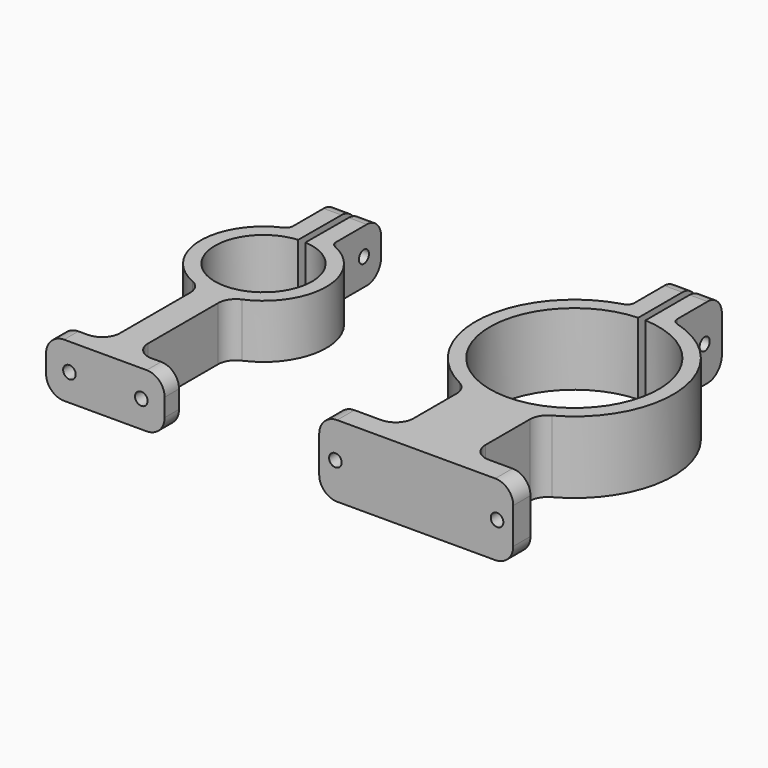
from build123d import *

# Parameters (mm, degrees)
F1_DEPTH  = 15
F2_R      = 1.75
F3_DEPTH  = 25
F4_R      = 1.75
F5_DEPTH  = 25
F6_R      = 5
F8_DEPTH  = 20
F9_R      = 1.75
F10_DEPTH = 25
F11_R     = 1.75
F12_DEPTH = 25
F13_R     = 5
F14_R     = 2
F14_2_R   = 2
F15_R     = 5


with BuildPart() as f1:
    # F0 (on Top) → F1 (new body)
    with BuildSketch(Plane.XY):
        with BuildLine():
            ThreePointArc((-52.053306, 13.469729), (-52.860094, -13.499653), (-54.053375, 13.455394))
            Line((-54.053375, 13.455394), (-53.95685, 33.439282))
            Line((-53.95685, 33.439282), (-58.95685, 33.439282))
            Line((-58.95685, 33.439282), (-58.95685, 16.439282))
            ThreePointArc((-58.95685, 16.439282), (-70.449843, 0.495167), (-59.877178, -16.073552))
            ThreePointArc((-59.877178, -16.073552), (-57.677922, -17.917012), (-56.854415, -20.665995))
            Line((-56.854415, -20.665995), (-56.854415, -45))
            ThreePointArc((-56.854415, -45), (-58.318881, -48.535534), (-61.854415, -50))
            Line((-61.854415, -50), (-69.45685, -50))
            Line((-69.45685, -50), (-69.45685, -55))
            Line((-69.45685, -55), (-36.45685, -55))
            Line((-36.45685, -55), (-36.45685, -50))
            Line((-36.45685, -50), (-44.059286, -50))
            ThreePointArc((-44.059286, -50), (-47.59482, -48.535534), (-49.059286, -45))
            Line((-49.059286, -45), (-49.059286, -20.665995))
            ThreePointArc((-49.059286, -20.665995), (-48.235778, -17.917012), (-46.036522, -16.073552))
            ThreePointArc((-46.036522, -16.073552), (-35.463857, 0.495167), (-46.95685, 16.439282))
            Line((-46.95685, 16.439282), (-46.95685, 33.439282))
            Line((-46.95685, 33.439282), (-51.95685, 33.439282))
            Line((-51.95685, 33.439282), (-52.053306, 13.469729))
        make_face()
    extrude(amount=F1_DEPTH)

    # F2 (on face) → F3 (cut)
    with BuildSketch(Plane.XZ.offset(55)):
        with Locations((-62.95685, 7.5)):
            Circle(F2_R)
        with Locations((-42.95685, 7.5)):
            Circle(F2_R)
    extrude(amount=-F3_DEPTH, mode=Mode.SUBTRACT)

    # F4 (on face) → F5 (cut)
    with BuildSketch(Plane.YZ.offset(-46.95685)):
        with Locations((27.439282, 7.5)):
            Circle(F4_R)
    extrude(amount=-F5_DEPTH, mode=Mode.SUBTRACT)

    # F6
    f6_edges = [f1.edges().sort_by_distance(p)[0] for p in [
        (-49.45685, 33.439282, 15),
        (-56.45685, 33.439282, 15),
        (-49.45685, 33.439282, 0),
        (-56.45685, 33.439282, 0),
        (-36.45685, -52.5, 15),
        (-36.45685, -52.5, 0),
        (-69.45685, -52.5, 15),
        (-69.45685, -52.5, 0),
    ]]
    fillet(f6_edges, radius=F6_R)

    # F14#2
    f14_2_edges = [f1.edges().sort_by_distance(p)[0] for p in [
        (-58.95685, 16.439282, 7.5),
        (-46.95685, 16.439282, 7.5),
    ]]
    fillet(f14_2_edges, radius=F14_2_R)


with BuildPart() as f8:
    # F7 (on Top) → F8 (new body)
    with BuildSketch(Plane.XY):
        with BuildLine():
            ThreePointArc((34.54904, 23.478714), (33.54904, -23.5), (32.54904, 23.478714))
            Line((32.54904, 23.478714), (32.54904, 43.837474))
            Line((32.54904, 43.837474), (27.54904, 43.837474))
            Line((27.54904, 43.837474), (27.54904, 26.837474))
            ThreePointArc((27.54904, 26.837474), (6.110848, 1.842729), (24.014337, -25.794175))
            ThreePointArc((24.014337, -25.794175), (34.048544, -27.495463), (44.014337, -25.430839))
            ThreePointArc((44.014337, -25.430839), (60.949234, 2.340807), (39.54904, 26.837474))
            Line((39.54904, 26.837474), (39.54904, 43.837474))
            Line((39.54904, 43.837474), (34.54904, 43.837474))
            Line((34.54904, 43.837474), (34.54904, 23.478714))
        make_face()
        with BuildLine():
            ThreePointArc((44.014337, -25.430839), (34.048544, -27.495463), (24.014337, -25.794175))
            Line((24.014337, -25.794175), (24.014337, -49))
            Line((24.014337, -49), (6.54904, -49))
            Line((6.54904, -49), (6.54904, -55))
            Line((6.54904, -55), (60.54904, -55))
            Line((60.54904, -55), (60.54904, -49))
            Line((60.54904, -49), (44.014337, -49))
            Line((44.014337, -49), (44.014337, -25.430839))
        make_face()
    extrude(amount=F8_DEPTH)

    # F9 (on face) → F10 (cut)
    with BuildSketch(Plane.YZ.offset(39.54904)):
        with Locations((37.837474, 10)):
            Circle(F9_R)
    extrude(amount=-F10_DEPTH, mode=Mode.SUBTRACT)

    # F11 (on face) → F12 (cut)
    with BuildSketch(Plane.XZ.offset(55)):
        with Locations((56.04904, 10)):
            Circle(F11_R)
        with Locations((11.04904, 10)):
            Circle(F11_R)
    extrude(amount=-F12_DEPTH, mode=Mode.SUBTRACT)

    # F13
    f13_edges = [f8.edges().sort_by_distance(p)[0] for p in [
        (44.014337, -49, 10),
        (44.014337, -25.430839, 10),
        (60.54904, -52, 20),
        (37.04904, 43.837474, 20),
        (30.04904, 43.837474, 20),
        (60.54904, -52, 0),
        (37.04904, 43.837474, 0),
        (30.04904, 43.837474, 0),
        (6.54904, -52, 0),
        (6.54904, -52, 20),
        (24.014337, -25.794175, 10),
    ]]
    fillet(f13_edges, radius=F13_R)

    # F14
    f14_edges = [f8.edges().sort_by_distance(p)[0] for p in [
        (27.54904, 26.837474, 10),
        (39.54904, 26.837474, 10),
    ]]
    fillet(f14_edges, radius=F14_R)

    # F15
    f15_edges = [f8.edges().sort_by_distance(p)[0] for p in [
        (24.014337, -49, 10),
    ]]
    fillet(f15_edges, radius=F15_R)


solid = Compound([f1.part, f8.part])
